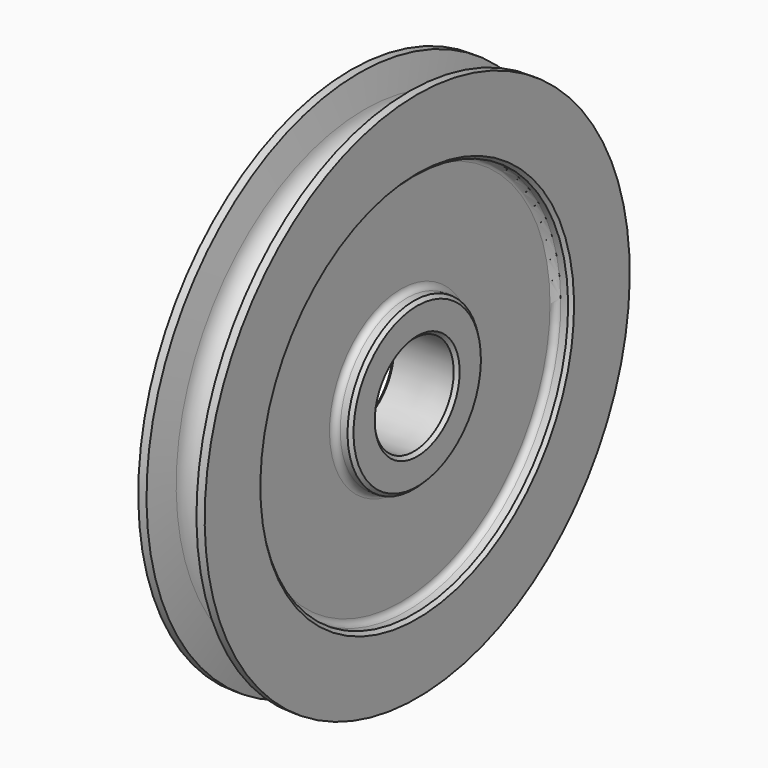
from build123d import *

# Parameters (mm, degrees)
F2_SIZE = 0.635
F3_R    = 1.143


with BuildPart() as f1:
    # F0 (on Front) → F1 (revolve)
    with BuildSketch(Plane.XZ):
        with BuildLine():
            Line((-0.370115592, 47.3796315491), (2.804884408, 47.3796315491))
            Line((2.804884408, 47.3796315491), (2.804884408, 26.4210365713))
            Line((2.804884408, 26.4210365713), (-0.370115592, 26.4246841986))
            Line((-0.370115592, 26.4246841986), (-0.370115592, 20.0444988011))
            Line((-0.370115592, 20.0444988011), (12.329884408, 20.0299082918))
            Line((12.329884408, 20.0299082918), (12.329884408, 26.3799082918))
            Line((12.329884408, 26.3799082918), (9.154884408, 26.3799082918))
            Line((9.154884408, 26.3799082918), (9.154884408, 47.3796315491))
            Line((9.154884408, 47.3796315491), (12.329884408, 47.3796315491))
            Line((12.329884408, 47.3796315491), (12.329884408, 61.3194988011))
            Line((12.329884408, 61.3194988011), (10.755084408, 61.3194988011))
            Line((10.755084408, 61.3194988011), (10.1112807135, 55.4913084055))
            ThreePointArc((10.1112807135, 55.4913084055), (6.1633464087, 51.9408858871), (2.2182688026, 55.4944823773))
            Line((2.2182688026, 55.4944823773), (1.204684408, 61.3194988011))
            Line((1.204684408, 61.3194988011), (-0.370115592, 61.3194988011))
            Line((-0.370115592, 61.3194988011), (-0.370115592, 47.3796315491))
        make_face()
    revolve(axis=Axis((7.6398788951, 0, 10.5194988011), (1, 0, 0)))

    # F2
    f2_edges = [f1.edges().sort_by_distance(p)[0] for p in [
        (12.329884, 0, -26.340634),
        (12.329884, 0, -5.340911),
        (12.329884, 0, 1.009089),
        (-0.370116, 0, 0.994499),
        (-0.370116, 0, -5.385687),
        (-0.370116, 0, -26.340634),
    ]]
    chamfer(f2_edges, length=F2_SIZE)

    # F3
    f3_edges = [f1.edges().sort_by_distance(p)[0] for p in [
        (2.804884, 0, -26.340634),
        (9.154884, 0, -26.340634),
        (9.154884, 0, -5.340911),
    ]]
    fillet(f3_edges, radius=F3_R)


solid = f1.part
